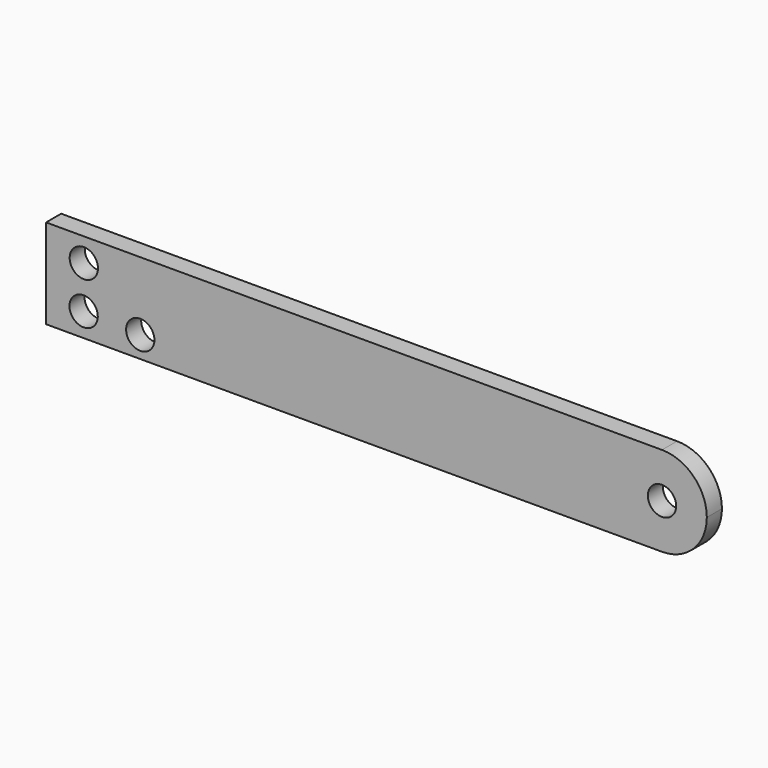
from build123d import *

# Parameters (mm, degrees)
F0_R     = 3
F1_DEPTH = 4


with BuildPart() as f1:
    # F0 (on Front) → F1 (new body)
    with BuildSketch(Plane.XZ):
        with BuildLine():
            Line((-11.929064, 10.721526), (-11.929064, -8.278474))
            Line((-11.929064, -8.278474), (118.570936, -8.278474))
            ThreePointArc((118.570936, -8.278474), (125.28845, -5.495988), (128.070936, 1.221526))
            ThreePointArc((128.070936, 1.221526), (125.28845, 7.939041), (118.570936, 10.721526))
            Line((118.570936, 10.721526), (-11.929064, 10.721526))
        make_face()
        with Locations((8.027355, -3.757157)):
            Circle(F0_R, mode=Mode.SUBTRACT)
        with Locations((-3.972645, -3.278474)):
            Circle(F0_R, mode=Mode.SUBTRACT)
        with Locations((118.570936, 1.221526)):
            Circle(F0_R, mode=Mode.SUBTRACT)
        with Locations((-3.929064, 5.721526)):
            Circle(F0_R, mode=Mode.SUBTRACT)
    extrude(amount=F1_DEPTH)


solid = f1.part
